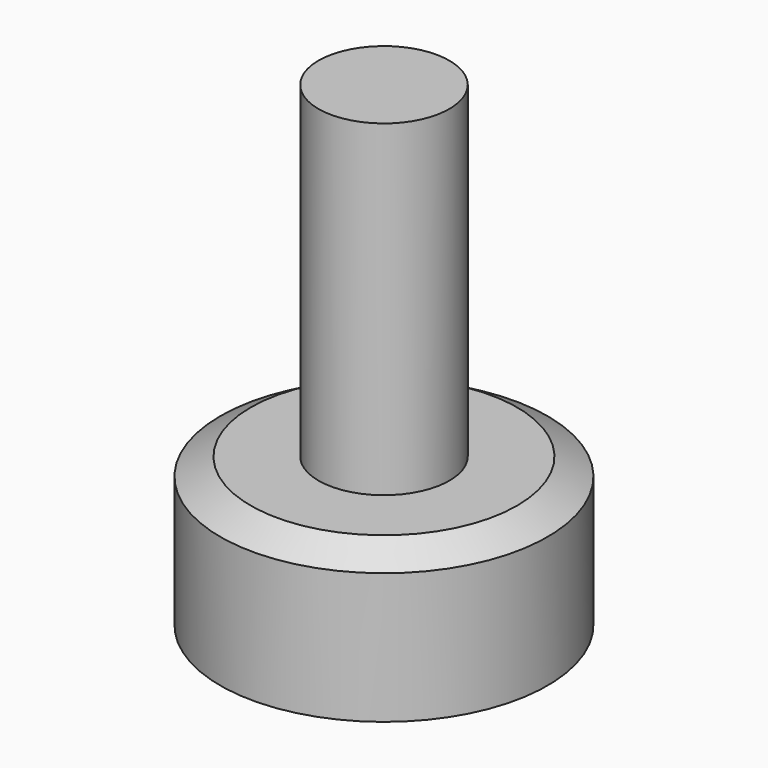
from build123d import *

# Parameters (mm, degrees)
F0_W   = 4
F0_H   = 20
F0_H_2 = 3
F0_H_3 = 1.0746234533


with BuildPart() as f1:
    # F0 (on Front) → F1 (revolve)
    with BuildSketch(Plane.XZ):
        with Locations((-22.5513077103, 19.0746234533)):
            Rectangle(F0_W, F0_H)
        Polygon((-24.5513077103, 8), (-30.5513077103, 8), (-30.5513077103, 0), (-24.5513077103, 0), (-24.5513077103, 5), align=None)
        Polygon((-28.6900052902, 9.0746234533), (-30.5513077103, 8), (-24.5513077103, 8), (-24.5513077103, 9.0746234533), align=None)
        with Locations((-22.5513077103, 6.5)):
            Rectangle(F0_W, F0_H_2)
        with Locations((-22.5513077103, 8.5373117267)):
            Rectangle(F0_W, F0_H_3)
    revolve(axis=Axis((-20.5513077103, 0, 19.0746234533), (0, 0, 1)))


solid = f1.part
